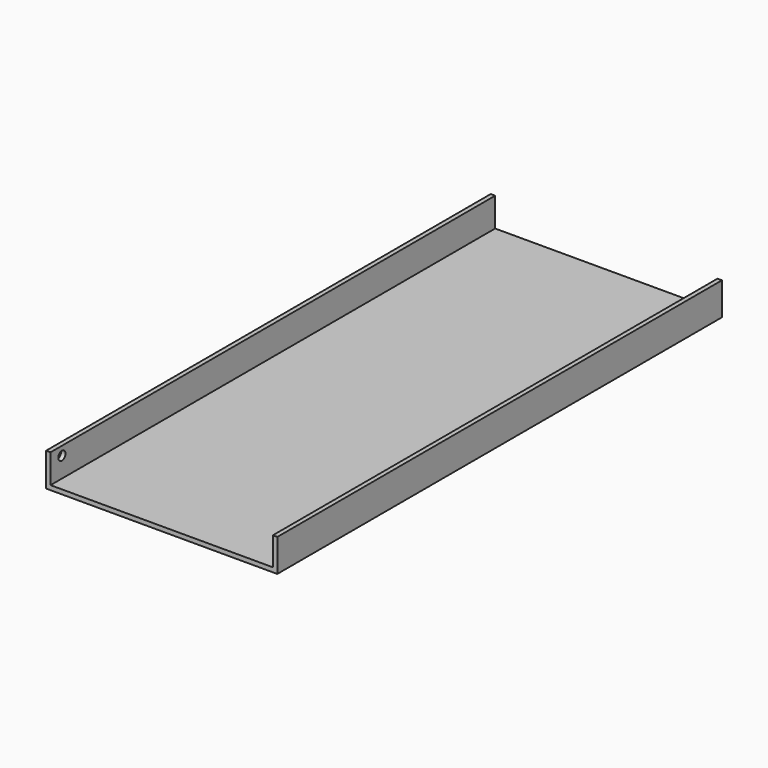
from build123d import *

# Parameters (mm, degrees)
F1_DEPTH = 500
F3_D     = 8
F3_DEPTH = 12


with BuildPart() as f1:
    # F0 (on Front) → F1 (new body)
    with BuildSketch(Plane.XZ):
        Polygon((-104, 30), (-104, 0), (104, 0), (104, 29.331477), (100, 29.331477), (100, 4), (-100, 4), (-100, 30), align=None)
    extrude(amount=-F1_DEPTH)

    # F3
    with Locations(Plane(origin=(-104, 0, 0), x_dir=(0, -1, 0), z_dir=(-1, 0, 0))):
        with Locations((-12.759611, 22.157129)):
            Hole(F3_D / 2, depth=F3_DEPTH)


solid = f1.part
